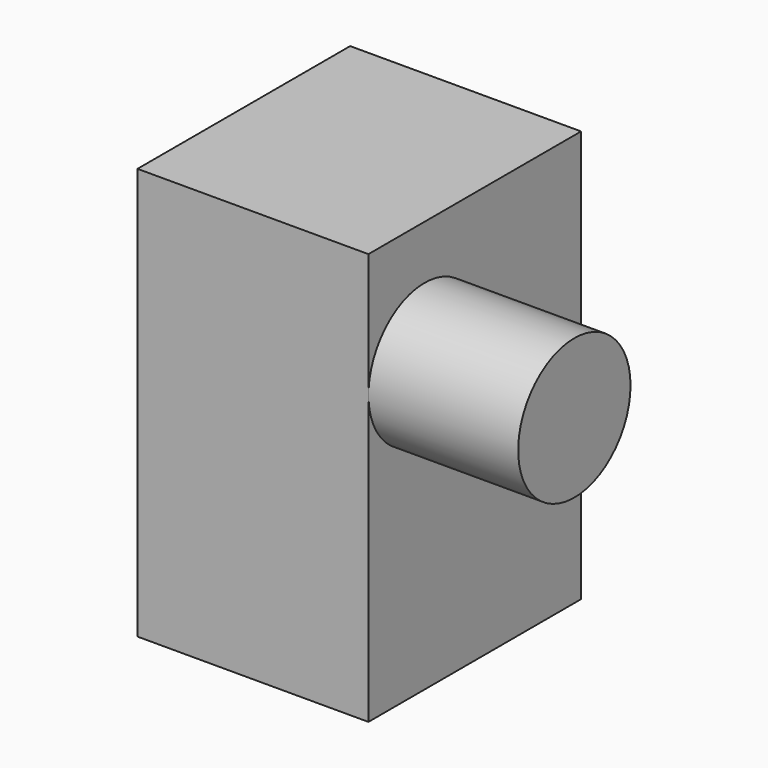
from build123d import *

# Parameters (mm, degrees)
F0_W     = 39.171115
F0_H     = 45.086052
F1_DEPTH = 69.85
F2_R     = 11.908162
F3_DEPTH = 25.4


with BuildPart() as f1:
    # F0 (on Top) → F1 (new body)
    with BuildSketch(Plane.XY):
        with Locations((-19.585558, -22.543026)):
            Rectangle(F0_W, F0_H)
    extrude(amount=F1_DEPTH)

    # F2 (on face) → F3 (join)
    with BuildSketch(Plane.YZ):
        with Locations((-33.17789, 48.821352)):
            Circle(F2_R)
    extrude(amount=F3_DEPTH)


solid = f1.part
